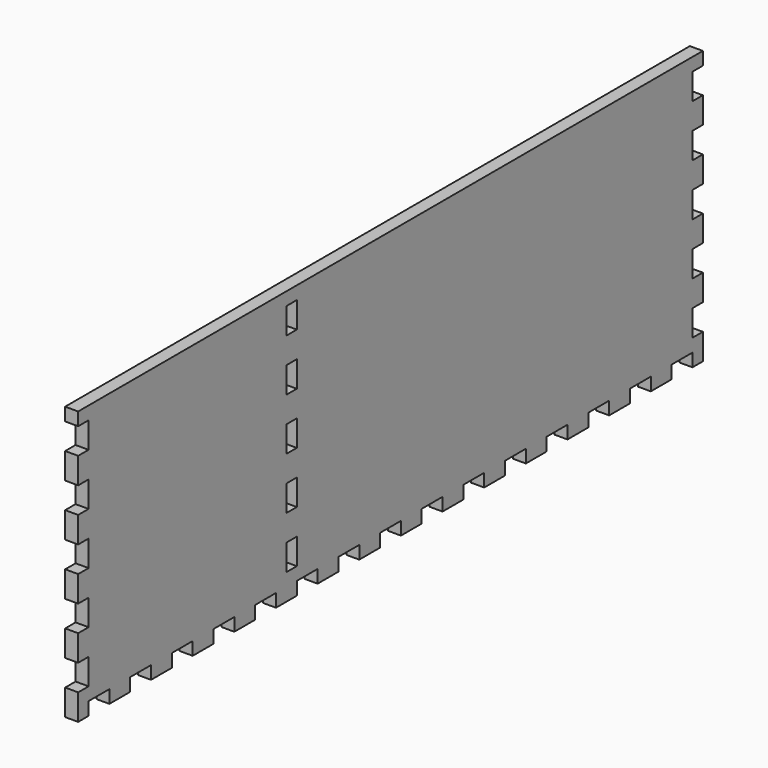
from build123d import *

# Parameters (mm, degrees)
SKETCH004_W             = 105
SKETCH004_H             = 300
PAD004_DEPTH            = 5
SKETCH125_W             = 5
SKETCH125_H             = 10
POCKET035_DEPTH         = 5
LINEARPATTERN077_COUNT  = 15
LINEARPATTERN077_PITCH  = 20
SKETCH126_W             = 10
SKETCH126_H             = 5
POCKET036_DEPTH         = 5
LINEARPATTERN078_COUNT  = 5
LINEARPATTERN078_PITCH  = 20
BODY004_PLACEMENT_ANGLE = 90


with BuildPart() as part:
    # Sketch004 → Pad004 (new body)
    with BuildSketch(Plane.XY):
        Rectangle(SKETCH004_W, SKETCH004_H)
    extrude(amount=PAD004_DEPTH)

    # Sketch125 (on DatumPlane) → Pocket035 (cut)
    with BuildSketch(Plane.XY.offset(5)):
        with Locations((-50, 140)):
            Rectangle(SKETCH125_W, SKETCH125_H)
    pocket035 = extrude(amount=-POCKET035_DEPTH, mode=Mode.SUBTRACT)

    # LinearPattern077: Pocket035 ×15
    with Locations(*[(0, -i * LINEARPATTERN077_PITCH, 0) for i in range(1, LINEARPATTERN077_COUNT)]):
        add(pocket035, mode=Mode.SUBTRACT)

    # Sketch126 (on DatumPlane) → Pocket036 (cut)
    with BuildSketch(Plane.XY.offset(5)):
        with Locations((-37.5, 147.5)):
            Rectangle(SKETCH126_W, SKETCH126_H)
        with Locations((-37.5, -47.5)):
            Rectangle(SKETCH126_W, SKETCH126_H)
        with Locations((-37.5, -147.5)):
            Rectangle(SKETCH126_W, SKETCH126_H)
    pocket036 = extrude(amount=-POCKET036_DEPTH, mode=Mode.SUBTRACT)

    # LinearPattern078: Pocket036 ×5
    with Locations(*[(i * LINEARPATTERN078_PITCH, 0, 0) for i in range(1, LINEARPATTERN078_COUNT)]):
        add(pocket036, mode=Mode.SUBTRACT)


with BuildPart() as part_1:
    # Body004 placement: moved
    add(part.part.moved(Location((-250, 0, 52.5))).rotate(Axis((-250, 0, 52.5), (0, -1, 0)), BODY004_PLACEMENT_ANGLE))


solid = part_1.part
